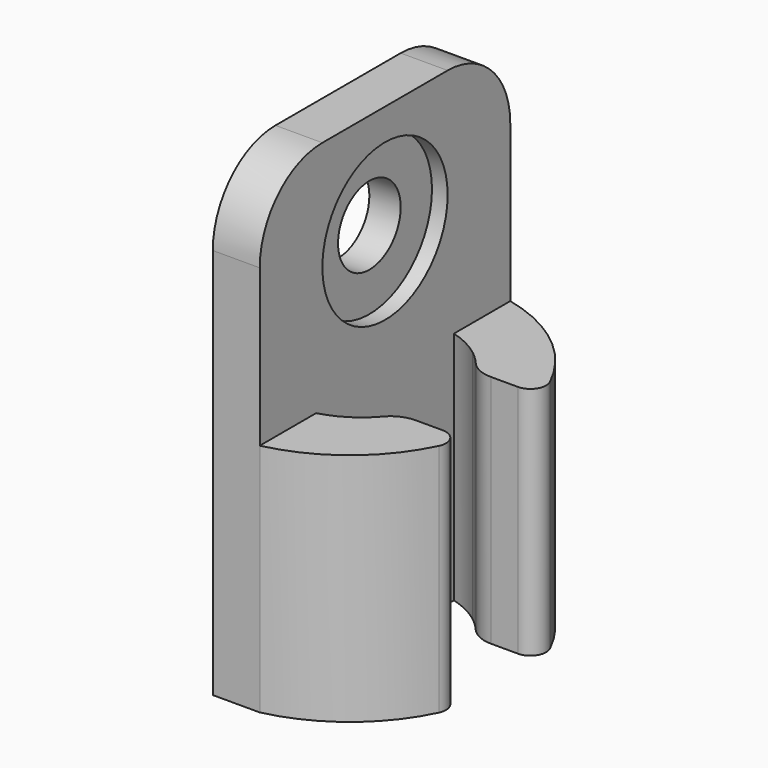
from build123d import *

# Parameters (mm, degrees)
F1_DEPTH = 30
F2_DEPTH = 15
F3_R     = 2.5
F4_DEPTH = 25
F5_R     = 5
F3_R_2   = 5
F6_DEPTH = 1
F7_R     = 2
F8_R     = 1


with BuildPart() as f1:
    # F0 (on Top) → F1 (new body)
    with BuildSketch(Plane.XY):
        Polygon((3, 10), (0, 10), (0, -10), (3, -10), (3, -5.5), (3, 5.5), align=None)
    extrude(amount=F1_DEPTH)

    # F0 (on Top) → F2 (join)
    with BuildSketch(Plane.XY):
        with BuildLine():
            ThreePointArc((10.551148, 3), (7.718324, 7.516978), (3, 10))
            Line((3, 10), (3, 5.5))
            Line((3, 5.5), (5, 5.5))
            Line((5, 5.5), (5, 4.499471))
            ThreePointArc((5, 4.499471), (5.740219, 3.809727), (6.346858, 3))
            Line((6.346858, 3), (10.551148, 3))
        make_face()
        with BuildLine():
            Line((3, -5.5), (3, -10))
            ThreePointArc((3, -10), (7.718324, -7.516978), (10.551148, -3))
            Line((10.551148, -3), (6.346858, -3))
            ThreePointArc((6.346858, -3), (5.740219, -3.809727), (5, -4.499471))
            Line((5, -4.499471), (5, -5.5))
            Line((5, -5.5), (3, -5.5))
        make_face()
        with BuildLine():
            Line((5, 5.5), (3, 5.5))
            ThreePointArc((3, 5.5), (4.049539, 5.09876), (5, 4.499471))
            Line((5, 4.499471), (5, 5.5))
        make_face()
        with BuildLine():
            ThreePointArc((5, -4.499471), (4.049539, -5.09876), (3, -5.5))
            Line((3, -5.5), (5, -5.5))
            Line((5, -5.5), (5, -4.499471))
        make_face()
    extrude(amount=F2_DEPTH)

    # F3 (on face) → F4 (cut)
    with BuildSketch(Plane.YZ.offset(3)):
        with Locations((0, 23)):
            Circle(F3_R)
    extrude(amount=-F4_DEPTH, mode=Mode.SUBTRACT)

    # F5
    f5_edges = [f1.edges().sort_by_distance(p)[0] for p in [
        (1.5, -10, 30),
        (1.5, 10, 30),
    ]]
    fillet(f5_edges, radius=F5_R)

    # F3 (on face) → F6 (cut)
    with BuildSketch(Plane.YZ.offset(3)):
        with Locations((0, 23)):
            Circle(F3_R_2)
        with Locations((0, 23)):
            Circle(F3_R, mode=Mode.SUBTRACT)
    extrude(amount=-F6_DEPTH, mode=Mode.SUBTRACT)

    # F7
    f7_edges = [f1.edges().sort_by_distance(p)[0] for p in [
        (6.346858, -3, 7.5),
        (6.346858, 3, 7.5),
    ]]
    fillet(f7_edges, radius=F7_R)

    # F8
    f8_edges = [f1.edges().sort_by_distance(p)[0] for p in [
        (10.551148, -3, 7.5),
        (10.551148, 3, 7.5),
    ]]
    fillet(f8_edges, radius=F8_R)


solid = f1.part
